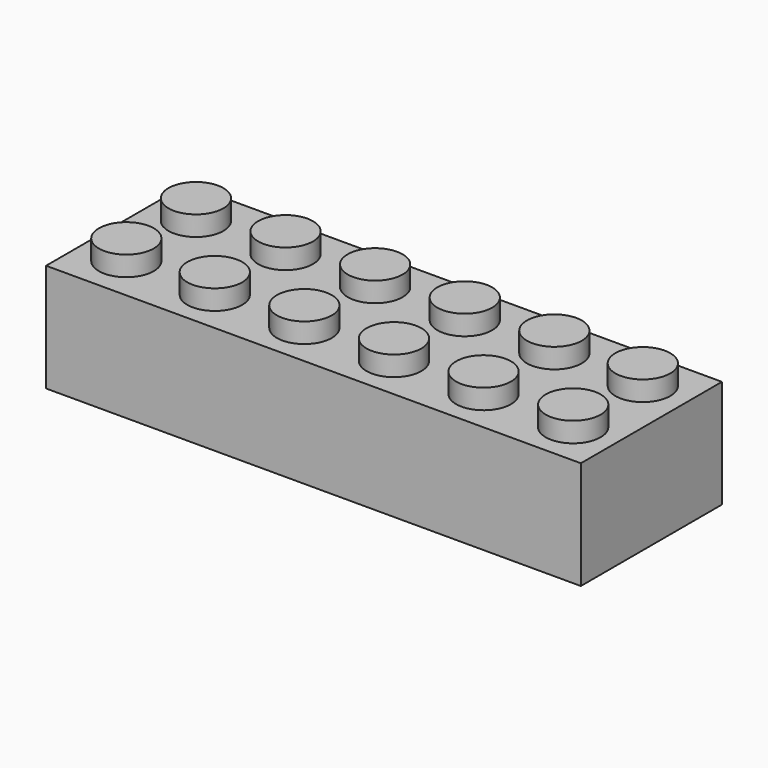
from build123d import *

# Parameters (mm, degrees)
F0_W     = 47.752
F0_H     = 15.748
F1_DEPTH = 9.652
F2_R     = 2.4511
F3_DEPTH = 1.778
F4_W     = 45.212
F4_H     = 13.208
F5_DEPTH = 8.382
F6_R     = 3.2385
F6_R_2   = 2.8575
F7_DEPTH = 8.382


with BuildPart() as f1:
    # F0 (on Top) → F1 (new body)
    with BuildSketch(Plane.XY):
        Rectangle(F0_W, F0_H)
    extrude(amount=F1_DEPTH)

    # F2 (on face) → F3 (join)
    with BuildSketch(Plane.XY.offset(9.652)):
        with Locations((-19.9517, 3.9497)):
            Circle(F2_R)
        with Locations((-11.9507, 3.9497)):
            Circle(F2_R)
        with Locations((-3.9497, 3.9497)):
            Circle(F2_R)
        with Locations((4.0513, 3.9497)):
            Circle(F2_R)
        with Locations((12.0523, 3.9497)):
            Circle(F2_R)
        with Locations((19.9517, 3.9497)):
            Circle(F2_R)
        with Locations((-11.951712, -3.9497)):
            Circle(F2_R)
        with Locations((-3.950712, -3.9497)):
            Circle(F2_R)
        with Locations((4.050288, -3.9497)):
            Circle(F2_R)
        with Locations((12.051288, -3.9497)):
            Circle(F2_R)
        with Locations((20.052288, -3.9497)):
            Circle(F2_R)
        with Locations((-19.9517, -3.822471)):
            Circle(F2_R)
    extrude(amount=F3_DEPTH)

    # F4 (on face) → F5 (cut)
    with BuildSketch(Plane(origin=(0, 0, 0), x_dir=(1, 0, 0), z_dir=(0, 0, -1))):
        Rectangle(F4_W, F4_H)
    extrude(amount=-F5_DEPTH, mode=Mode.SUBTRACT)

    # F6 (on face) → F7 (join)
    with BuildSketch(Plane(origin=(0, 0, 8.382), x_dir=(1, 0, 0), z_dir=(0, 0, -1))):
        with Locations((-17.78, 0)):
            Circle(F6_R)
        with Locations((-17.78, 0)):
            Circle(F6_R_2, mode=Mode.SUBTRACT)
        with Locations((-8.89, 0)):
            Circle(F6_R)
        with Locations((-8.89, 0)):
            Circle(F6_R_2, mode=Mode.SUBTRACT)
        Circle(F6_R)
        Circle(F6_R_2, mode=Mode.SUBTRACT)
        with Locations((8.89, 0)):
            Circle(F6_R)
        with Locations((8.89, 0)):
            Circle(F6_R_2, mode=Mode.SUBTRACT)
        with Locations((17.78, 0)):
            Circle(F6_R)
        with Locations((17.78, 0)):
            Circle(F6_R_2, mode=Mode.SUBTRACT)
    extrude(amount=F7_DEPTH)


solid = f1.part
